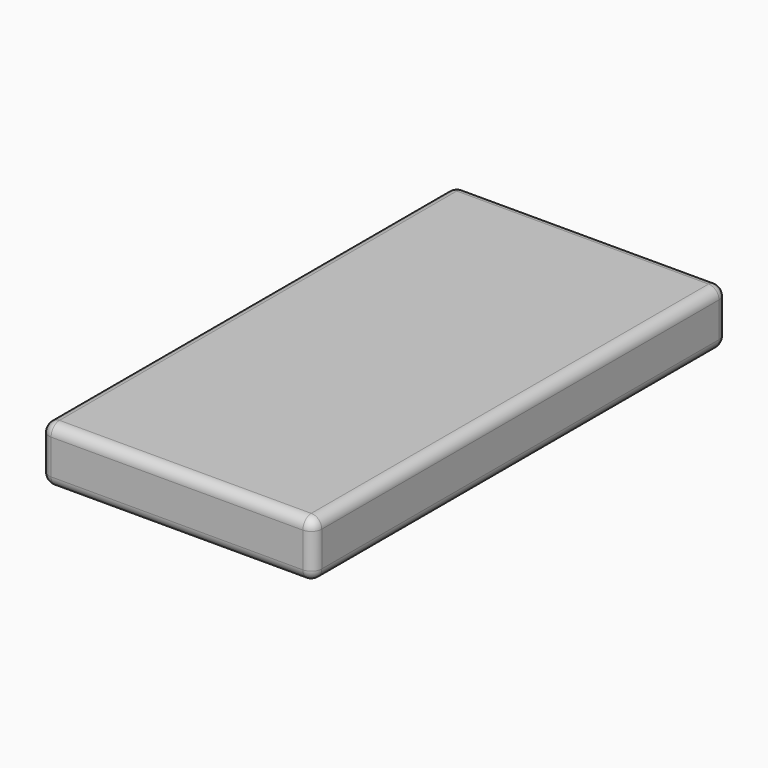
from build123d import *

# Parameters (mm, degrees)
F1_DEPTH = 1879.6
F2_R     = 38.1


with BuildPart() as f1:
    # F0 (on Front) → F1 (new body)
    with BuildSketch(Plane.XZ):
        with BuildLine():
            Line((-457.2, -101.6), (457.2, -101.6))
            ThreePointArc((457.2, -101.6), (484.140768, -90.440768), (495.3, -63.5))
            Line((495.3, -63.5), (495.3, 63.5))
            ThreePointArc((495.3, 63.5), (484.140768, 90.440768), (457.2, 101.6))
            Line((457.2, 101.6), (-457.2, 101.6))
            ThreePointArc((-457.2, 101.6), (-484.140768, 90.440768), (-495.3, 63.5))
            Line((-495.3, 63.5), (-495.3, -63.5))
            ThreePointArc((-495.3, -63.5), (-484.140768, -90.440768), (-457.2, -101.6))
        make_face()
    extrude(amount=F1_DEPTH)

    # F2
    f2_edges = [f1.edges().sort_by_distance(p)[0] for p in [
        (495.3, -1879.6, 0),
        (457.2, -939.8, 101.6),
        (495.3, 0, 0),
    ]]
    fillet(f2_edges, radius=F2_R)


solid = f1.part
